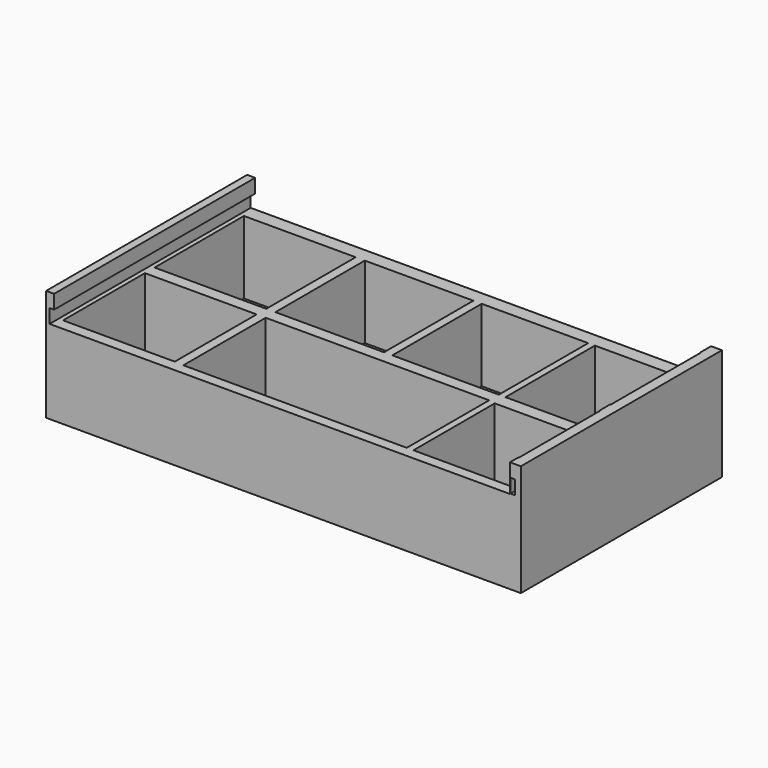
from build123d import *

# Parameters (mm, degrees)
F0_W      = 107.95
F0_H      = 57.15
F1_DEPTH  = 25.4
F2_W      = 25.4
F2_H      = 25.4
F2_H_2    = 23.2541756704
F2_W_2    = 24.6955640614
F2_W_3    = 50.8
F2_H_3    = 23.3953045681
F2_W_4    = 24.2106489923
F2_W_5    = 24.0074023604
F2_H_4    = 23.0993351433
F3_DEPTH  = 22.86
F4_W      = 103.6651358008
F4_H      = 57.15
F5_DEPTH  = 6.35
F6_W      = 57.15
F6_H      = 3.175
F7_DEPTH  = 1.016
F8_W      = 57.15
F8_H      = 3.175
F9_DEPTH  = 1.016
F10_DEPTH = 57.15


with BuildPart() as f1:
    # F0 (on Top) → F1 (new body)
    with BuildSketch(Plane.XY):
        Rectangle(F0_W, F0_H)
    extrude(amount=F1_DEPTH)

    # F2 (on face) → F3 (cut)
    with BuildSketch(Plane.XY.offset(25.4)):
        with Locations((-39.4618835628, 12.7)):
            Rectangle(F2_W, F2_H)
        with Locations((-39.4618835628, -14.386146795)):
            Rectangle(F2_W, F2_H_2)
        with Locations((-12.3477820307, 12.7)):
            Rectangle(F2_W_2, F2_H)
        with Locations((0.7044359386, -14.4567112438)):
            Rectangle(F2_W_3, F2_H_3)
        with Locations((13.9991114425, 12.7)):
            Rectangle(F2_W_4, F2_H)
        with Locations((39.6287105978, 12.7)):
            Rectangle(F2_W_5, F2_H)
        with Locations((39.6287105978, -14.6046959562)):
            Rectangle(F2_W_5, F2_H_4)
    extrude(amount=-F3_DEPTH, mode=Mode.SUBTRACT)

    # F4 (on face) → F5 (cut)
    with BuildSketch(Plane.XY.offset(25.4)):
        with Locations((-0.3293156624, 0)):
            Rectangle(F4_W, F4_H)
    extrude(amount=-F5_DEPTH, mode=Mode.SUBTRACT)

    # F6 (on face) → F7 (cut)
    with BuildSketch(Plane.YZ.offset(-52.1618835628)):
        with Locations((0, 20.6375)):
            Rectangle(F6_W, F6_H)
    extrude(amount=-F7_DEPTH, mode=Mode.SUBTRACT)

    # F8 (on face) → F9 (cut)
    with BuildSketch(Plane(origin=(51.632411778, 0, 0), x_dir=(0, -1, 0), z_dir=(-1, 0, 0))):
        with Locations((0.0344297111, 20.7629382104)):
            Rectangle(F8_W, F8_H)
    extrude(amount=-F9_DEPTH, mode=Mode.SUBTRACT)

    # F10 (cut): a face of the model
    f10_faces = [f1.faces().sort_by_distance(p)[0] for p in [
        (52.140411778, 28.5405702889, 20.7629382104),
    ]]
    extrude(f10_faces, amount=-F10_DEPTH, mode=Mode.SUBTRACT)


solid = f1.part
